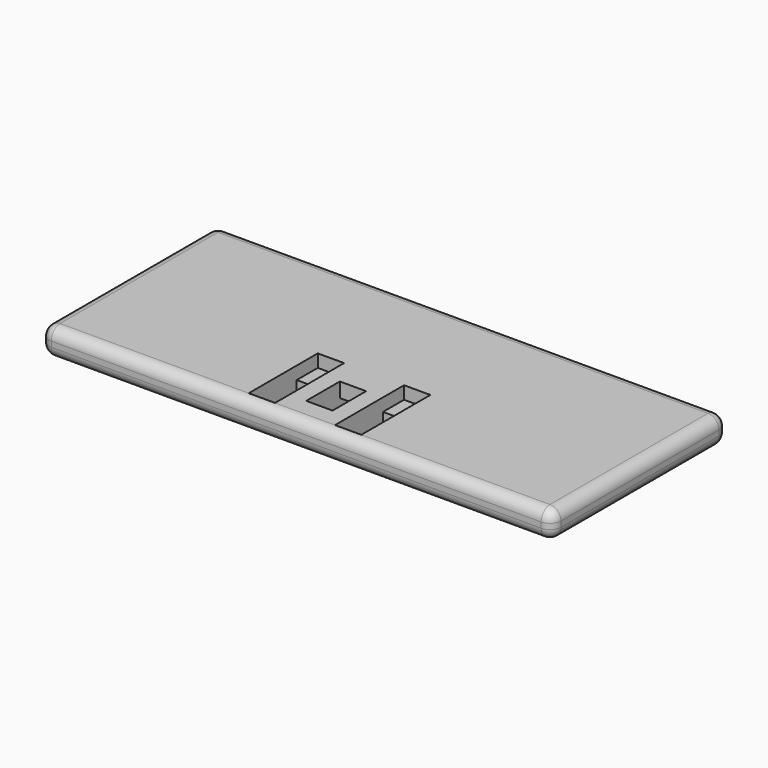
from build123d import *

# Parameters (mm, degrees)
F0_W     = 140
F0_H     = 60
F1_DEPTH = 7.5
F2_R     = 3
F3_W     = 7.2
F3_H     = 7.2
F3_H_2   = 4.9
F4_DEPTH = 3.5
F3_H_3   = 11.5
F5_DEPTH = 10
F6_DEPTH = 25
F7_START = 4
F7_DEPTH = 6


with BuildPart() as f1:
    # F0 (on Top) → F1 (new body)
    with BuildSketch(Plane.XY):
        Rectangle(F0_W, F0_H)
    extrude(amount=F1_DEPTH)

    # F2
    f2_edges = [f1.edges().sort_by_distance(p)[0] for p in [
        (0, -30, 7.5),
        (70, 0, 7.5),
        (0, 30, 7.5),
        (-70, 0, 7.5),
        (0, 30, 0),
        (70, 30, 3.75),
        (70, 0, 0),
        (70, -30, 3.75),
        (-70, 30, 3.75),
        (-70, 0, 0),
        (0, -30, 0),
        (-70, -30, 3.75),
    ]]
    fillet(f2_edges, radius=F2_R)

    # F3 (on Top) → F4 (cut)
    with BuildSketch(Plane.XY):
        with Locations((0, -7)):
            Rectangle(F3_W, F3_H)
        with Locations((0, -24.55)):
            Rectangle(F3_W, F3_H_2)
    extrude(amount=F4_DEPTH, mode=Mode.SUBTRACT)

    # F3 (on Top) → F5 (cut)
    with BuildSketch(Plane.XY):
        with Locations((0, -16.35)):
            Rectangle(F3_W, F3_H_3)
    extrude(amount=F5_DEPTH, mode=Mode.SUBTRACT)

    # F3 (on Top) → F6 (cut)
    with BuildSketch(Plane.XY):
        with Locations((-11.8, -16.35)):
            Rectangle(F3_W, F3_H_3)
        with Locations((11.8, -16.3500007004)):
            Rectangle(F3_W, F3_H_3)
    extrude(amount=F6_DEPTH, mode=Mode.SUBTRACT)

    # F3 (on Top) → F7 (cut)
    with BuildSketch(Plane.XY.offset(F7_START)):
        with Locations((-11.8, -24.55)):
            Rectangle(F3_W, F3_H_2)
        with Locations((-11.8, -7)):
            Rectangle(F3_W, F3_H)
        with Locations((11.8, -7.0000007004)):
            Rectangle(F3_W, F3_H)
        with Locations((11.8, -24.5500007004)):
            Rectangle(F3_W, F3_H_2)
    extrude(amount=F7_DEPTH, mode=Mode.SUBTRACT)


solid = f1.part
